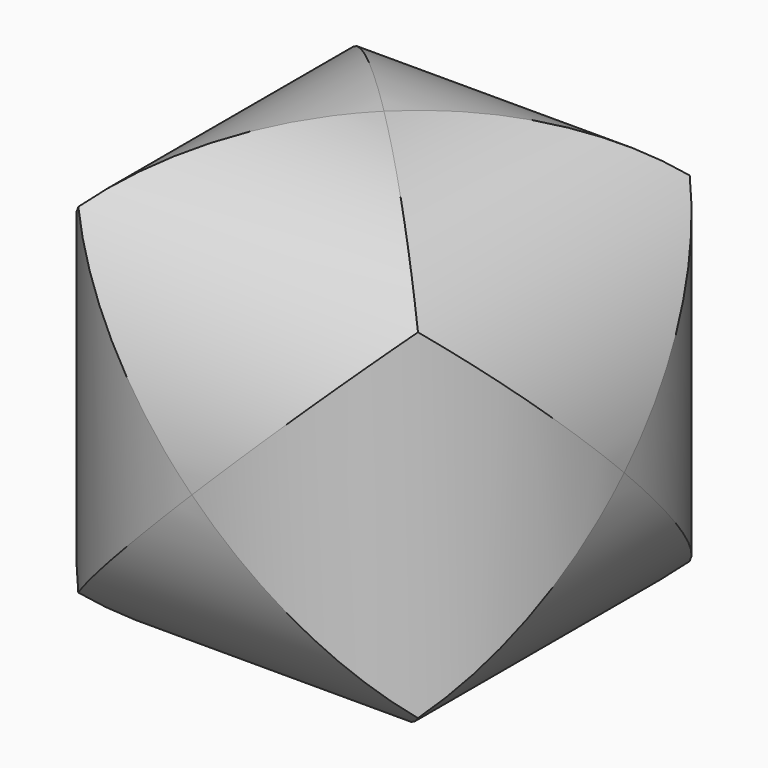
from build123d import *

# Parameters (mm, degrees)
F0_R          = 50.8
F1_DEPTH      = 50.8
F1_DEPTH_BACK = 50.8
F4_START      = -50.8
F2_R          = 50.8
F4_DEPTH      = 101.6
F5_START      = -50.8
F3_R          = 50.8
F5_DEPTH      = 101.6


with BuildPart() as f1:
    # F0 (on Top) → F1 (new body, two sides)
    with BuildSketch(Plane.XY) as f1_sk:
        Circle(F0_R)
    extrude(amount=F1_DEPTH)
    extrude(f1_sk.sketch, amount=-F1_DEPTH_BACK)

    # F2 (on Front) → F4 (intersect)
    with BuildSketch(Plane.XZ.offset(F4_START)):
        Circle(F2_R)
    extrude(amount=F4_DEPTH, mode=Mode.INTERSECT)

    # F3 (on Right) → F5 (intersect)
    with BuildSketch(Plane.YZ.offset(F5_START)):
        Circle(F3_R)
    extrude(amount=F5_DEPTH, mode=Mode.INTERSECT)


solid = f1.part
